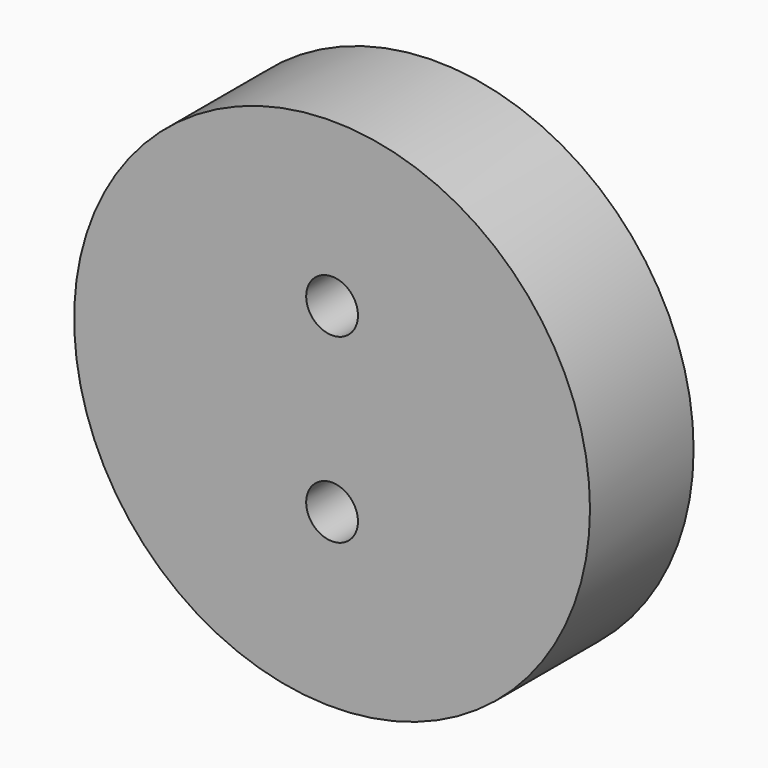
from build123d import *

# Parameters (mm, degrees)
F0_R     = 29.871853
F1_DEPTH = 15
F2_R     = 24.016909
F3_DEPTH = 6
F4_R     = 3
F5_DEPTH = 25


with BuildPart() as f1:
    # F0 (on Front) → F1 (new body)
    with BuildSketch(Plane.XZ):
        Circle(F0_R)
    extrude(amount=F1_DEPTH)

    # F2 (on face) → F3 (cut)
    with BuildSketch(Plane(origin=(0, 0, 0), x_dir=(-1, 0, 0), z_dir=(0, 1, 0))):
        Circle(F2_R)
    extrude(amount=-F3_DEPTH, mode=Mode.SUBTRACT)

    # F4 (on face) → F5 (cut)
    with BuildSketch(Plane(origin=(0, -6, 0), x_dir=(-1, 0, 0), z_dir=(0, 1, 0))):
        with Locations((0, 11.006043)):
            Circle(F4_R)
        with Locations((0, -9.993957)):
            Circle(F4_R)
    extrude(amount=-F5_DEPTH, mode=Mode.SUBTRACT)


solid = f1.part
